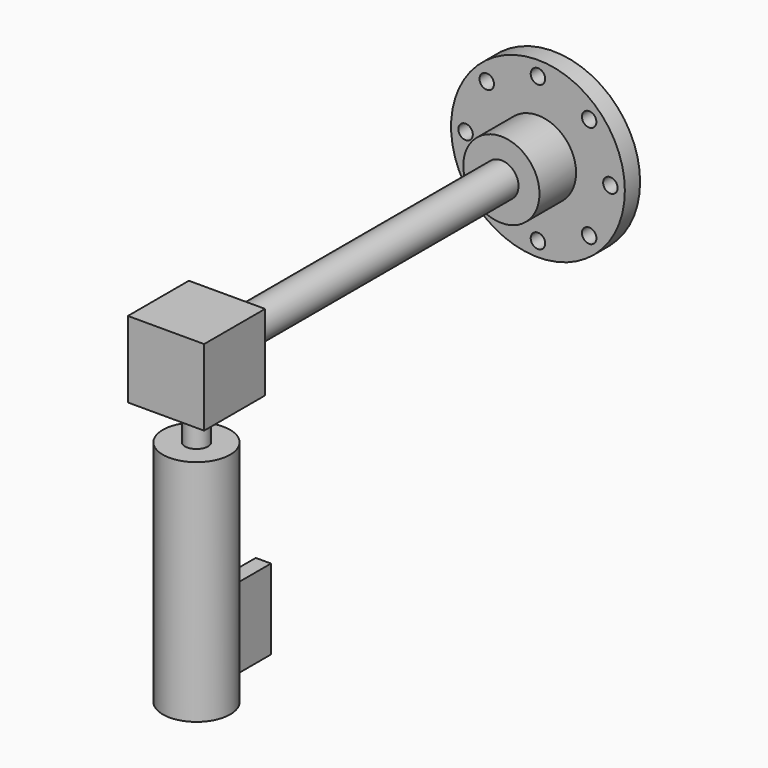
from build123d import *

# Parameters (mm, degrees)
F0_R      = 114
F0_R_2    = 9.5
F1_DEPTH  = 25
F2_R      = 50
F3_DEPTH  = 60
F4_R      = 22.5
F5_DEPTH  = 450
F6_W      = 100
F6_H      = 100
F7_DEPTH  = 100
F8_R      = 15
F9_DEPTH  = 50
F10_R     = 44.188125
F11_DEPTH = 300
F12_W     = 74.58368
F12_H     = 105.065704
F13_DEPTH = 10


with BuildPart() as f1:
    # F0 (on Front) → F1 (new body)
    with BuildSketch(Plane.XZ):
        Circle(F0_R)
        with Locations((-67.175144, -67.175144)):
            Circle(F0_R_2, mode=Mode.SUBTRACT)
        with Locations((0, -95)):
            Circle(F0_R_2, mode=Mode.SUBTRACT)
        with Locations((67.175144, -67.175144)):
            Circle(F0_R_2, mode=Mode.SUBTRACT)
        with Locations((-95, 0)):
            Circle(F0_R_2, mode=Mode.SUBTRACT)
        with Locations((-67.175144, 67.175144)):
            Circle(F0_R_2, mode=Mode.SUBTRACT)
        with Locations((95, 0)):
            Circle(F0_R_2, mode=Mode.SUBTRACT)
        with Locations((0, 95)):
            Circle(F0_R_2, mode=Mode.SUBTRACT)
        with Locations((67.175144, 67.175144)):
            Circle(F0_R_2, mode=Mode.SUBTRACT)
    extrude(amount=F1_DEPTH)

    # F2 (on face) → F3 (join)
    with BuildSketch(Plane.XZ.offset(25)):
        Circle(F2_R)
    extrude(amount=F3_DEPTH)

    # F4 (on face) → F5 (join)
    with BuildSketch(Plane.XZ.offset(85)):
        Circle(F4_R)
    extrude(amount=F5_DEPTH)

    # F6 (on face) → F7 (join)
    with BuildSketch(Plane.XZ.offset(535)):
        Rectangle(F6_W, F6_H)
    extrude(amount=F7_DEPTH)

    # F8 (on face) → F9 (join)
    with BuildSketch(Plane(origin=(0, 0, -50), x_dir=(1, 0, 0), z_dir=(0, 0, -1))):
        with Locations((0, 585)):
            Circle(F8_R)
    extrude(amount=F9_DEPTH)

    # F10 (on face) → F11 (join)
    with BuildSketch(Plane(origin=(0, 0, -100), x_dir=(1, 0, 0), z_dir=(0, 0, -1))):
        with Locations((0, 585)):
            Circle(F10_R)
    extrude(amount=F11_DEPTH)

    # F12 (on Right) → F13 (join, symmetric)
    with BuildSketch(Plane.YZ):
        with Locations((-512.605652, -333.903551)):
            Rectangle(F12_W, F12_H)
    extrude(amount=F13_DEPTH, both=True)


solid = f1.part
